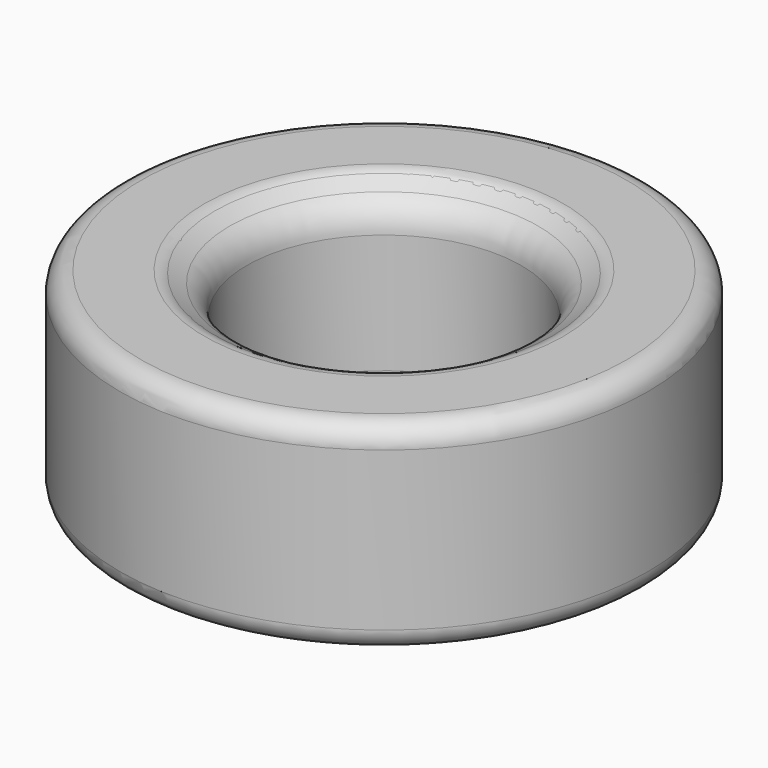
from build123d import *


with BuildPart() as f1:
    # F0 (on Front) → F1 (revolve)
    with BuildSketch(Plane.XZ):
        with BuildLine():
            Line((36.31804, 399.647903), (-116.08196, 399.647903))
            ThreePointArc((-116.08196, 399.647903), (-152.002984, 384.768927), (-166.88196, 348.847903))
            Line((-166.88196, 348.847903), (-166.88196, -32.152097))
            ThreePointArc((-166.88196, -32.152097), (-152.002984, -68.073122), (-116.08196, -82.952097))
            Line((-116.08196, -82.952097), (36.31804, -82.952097))
            ThreePointArc((36.31804, -82.952097), (72.239065, -68.073122), (87.11804, -32.152097))
            Line((87.11804, -32.152097), (87.11804, 348.847903))
            ThreePointArc((87.11804, 348.847903), (72.239065, 384.768927), (36.31804, 399.647903))
        make_face()
    revolve(axis=Axis((-547.88196, 0, 118.63108), (0, 0, -1)))


with BuildPart() as f3:
    # F2 (on face) → F3 (revolve)
    with BuildSketch(Plane.XZ):
        with BuildLine():
            ThreePointArc((-177.04196, 372.311418), (-206.792505, 342.560873), (-217.68196, 301.920873))
            Line((-217.68196, 301.920873), (-217.68196, 14.774933))
            ThreePointArc((-217.68196, 14.774933), (-206.792505, -25.865067), (-177.04196, -55.615612))
            Line((-177.04196, -55.615612), (-141.48196, -76.146188))
            ThreePointArc((-141.48196, -76.146188), (-160.07605, -57.552097), (-166.88196, -32.152097))
            Line((-166.88196, -32.152097), (-166.88196, 348.847903))
            ThreePointArc((-166.88196, 348.847903), (-160.07605, 374.247904), (-141.481958, 392.841994))
            Line((-141.481958, 392.841994), (-177.04196, 372.311418))
        make_face()
    revolve(axis=Axis((-547.88196, 0, 118.63108), (0, 0, -1)))


solid = Compound([f1.part, f3.part])
